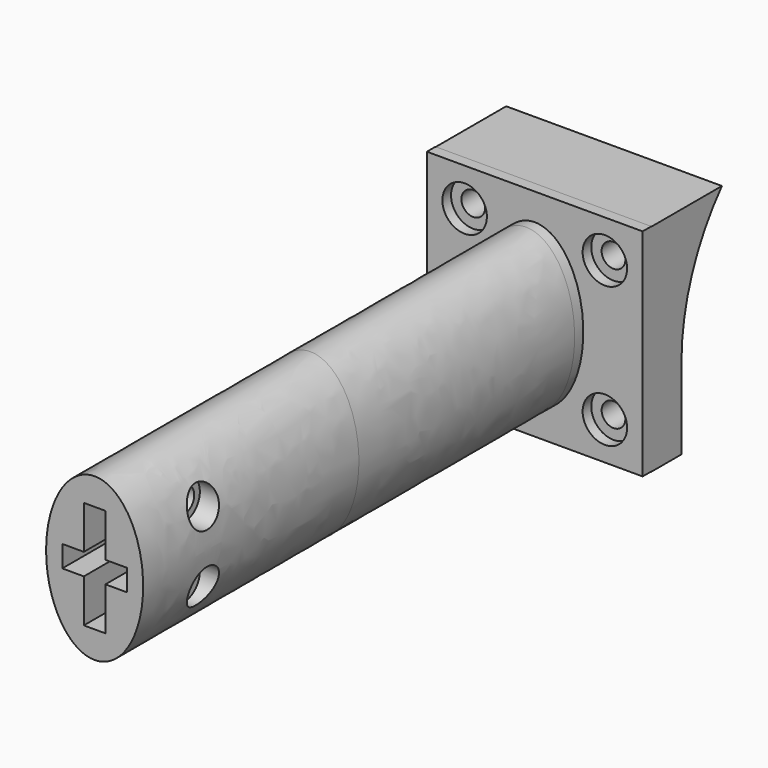
from build123d import *

# Parameters (mm, degrees)
F0_W            = 40
F0_H            = 40
F3_DEPTH        = 4
F4_DEPTH        = 50
F5_DEPTH        = 50
F7_DEPTH        = 20
F8_DEPTH        = 2
F9_D            = 4.4
F9_DEPTH        = 50
F9_CBORE_D      = 8.25
F9_CBORE_DEPTH  = 4
F9_TIP          = 1.3218933619
F12_D           = 4.4
F12_DEPTH       = 30
F12_START       = 7.2917962
F12_CBORE_D     = 7
F12_CBORE_DEPTH = 2
F12_TIP         = 1.3218933619
F14_DEPTH       = 30


with BuildPart() as f3:
    # F0 (on Front) → F3 (new body)
    with BuildSketch(Plane.XZ):
        Rectangle(F0_W, F0_H)
    extrude(amount=-F3_DEPTH)

    # F1 (on face) → F4 (join)
    with BuildSketch(Plane.XZ):
        with BuildLine():
            add(Edge.make_bspline(
                [(0, 15), (-15.5884572681, 15), (-7.7942286341, -7.5), (0, -30), (7.7942286341, -7.5), (15.5884572681, 15), (0, 15)],
                knots=[0, 0, 0, 2.0943951024, 2.0943951024, 4.1887902048, 4.1887902048, 6.2831853072, 6.2831853072, 6.2831853072], degree=2, weights=[1, 0.5, 1, 0.5, 1, 0.5, 1]))
        make_face()
    extrude(amount=F4_DEPTH)

    # F5 (add): a face of the model
    f5_faces = [f3.faces().sort_by_distance(p)[0] for p in [
        (0, -50, -0.0363826863),
    ]]
    extrude(f5_faces, amount=F5_DEPTH)

    # F6 (on Right) → F7 (join, symmetric)
    with BuildSketch(Plane.YZ):
        with BuildLine():
            ThreePointArc((11, -4.974102855), (13.4342862597, 8.3326675922), (20.3756691827, 19.9435716245))
            Line((20.3756691827, 19.9435716245), (4, 19.9435716245))
            Line((4, 19.9435716245), (4, -20.0564283755))
            Line((4, -20.0564283755), (11, -20.0564283755))
            Line((11, -20.0564283755), (11, -4.974102855))
        make_face()
    extrude(amount=F7_DEPTH, both=True)

    # F8 (cut): a face of the model
    f8_faces = [f3.faces().sort_by_distance(p)[0] for p in [
        (0, 0, -19.4343145722),
    ]]
    extrude(f8_faces, amount=-F8_DEPTH, mode=Mode.SUBTRACT)

    # F9
    with Locations(Plane.XZ):
        with Locations((-13, 13), (13, 13), (13, -13), (-13, -13)):
            CounterBoreHole(F9_D / 2, F9_CBORE_D / 2, F9_CBORE_DEPTH, depth=F9_DEPTH)
            with Locations((0, 0, -(F9_DEPTH + F9_TIP / 2))):  # 118° drill point
                Cone(0, F9_D / 2, F9_TIP, mode=Mode.SUBTRACT)

    # F12
    # its depths count from where the whole tool has entered the part; down to there all is cleared
    with Locations(Plane.YZ.offset(14).offset(-F12_START)):
        with Locations((-85, 6.5), (-85, -6.5)):
            CounterBoreHole(F12_D / 2, F12_CBORE_D / 2, F12_CBORE_DEPTH, depth=F12_DEPTH)
            with Locations((0, 0, -(F12_DEPTH + F12_TIP / 2))):  # 118° drill point
                Cone(0, F12_D / 2, F12_TIP, mode=Mode.SUBTRACT)

    # F13 (on face) → F14 (cut)
    with BuildSketch(Plane.XZ.offset(100)):
        Polygon((2, 10), (0, 10), (-2, 10), (-2, 2), (-6, 2), (-6, -2), (-2, -2), (-2, -10), (0, -10), (2, -10), (2, -2), (6, -2), (6, 2), (2, 2), align=None)
    extrude(amount=-F14_DEPTH, mode=Mode.SUBTRACT)


solid = f3.part
